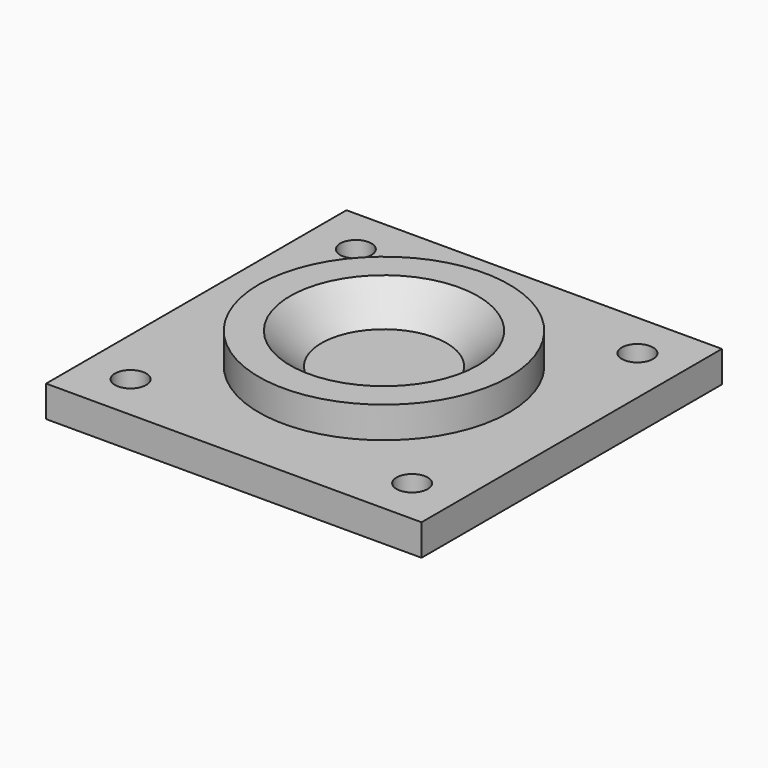
from build123d import *

# Parameters (mm, degrees)
F0_W     = 609.6
F0_H     = 609.6
F1_DEPTH = 50.8
F4_R     = 25.4
F5_DEPTH = 50.801


with BuildPart() as f1:
    # F0 (on Top) → F1 (new body)
    with BuildSketch(Plane.XY):
        Rectangle(F0_W, F0_H)
    extrude(amount=F1_DEPTH)

    # F2 (on Front) → F3 (revolve)
    with BuildSketch(Plane.XZ):
        Polygon((152.4, 101.6), (101.6, 50.8), (203.2, 50.8), (203.2, 101.6), align=None)
    revolve(axis=Axis((0, 0, 25.4), (0, 0, 1)))

    # F4 (on face) → F5 (cut, through all)
    with BuildSketch(Plane.XY.offset(50.8)):
        with Locations((-228.6, 228.6)):
            Circle(F4_R)
        with Locations((228.6, 228.6)):
            Circle(F4_R)
        with Locations((228.6, -228.6)):
            Circle(F4_R)
        with Locations((-228.6, -228.6)):
            Circle(F4_R)
    extrude(amount=-F5_DEPTH, mode=Mode.SUBTRACT)


solid = f1.part
